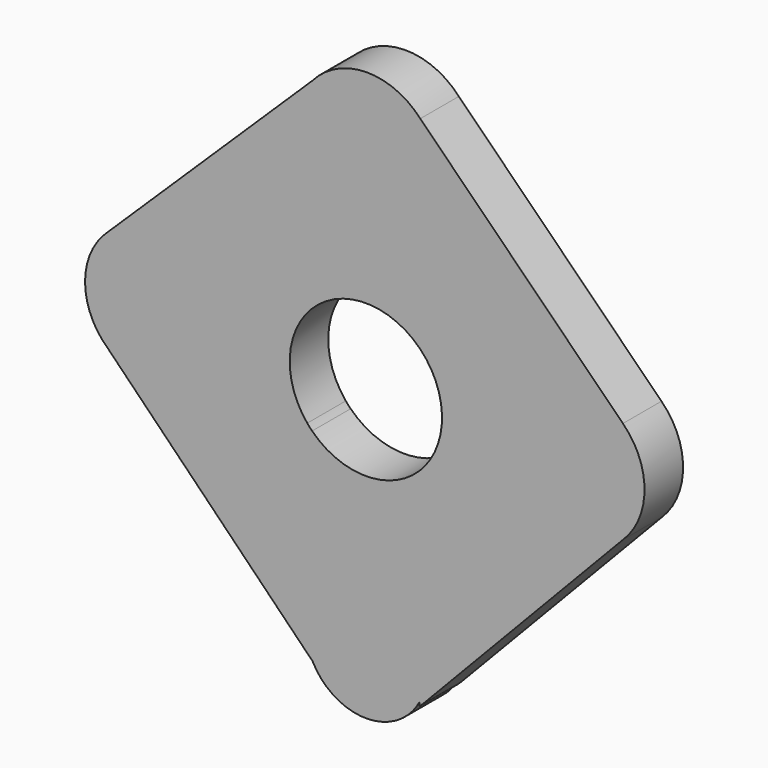
from build123d import *

# Parameters (mm, degrees)
F1_DEPTH = 6.96


with BuildPart() as f1:
    # F0 (on Front) → F1 (new body)
    with BuildSketch(Plane.XZ):
        with BuildLine():
            Line((7.764825, -37.187766), (7.764825, -37.751798))
            Line((7.764825, -37.751798), (8.341329, -37.187766))
            Line((8.341329, -37.187766), (37.133072, -7.022527))
            ThreePointArc((37.133072, -7.022527), (40.255881, 0.371149), (37.133072, 7.764825))
            Line((37.133072, 7.764825), (7.861621, 37.010901))
            ThreePointArc((7.861621, 37.010901), (0.040821, 40.394728), (-7.689789, 36.809638))
            Line((-7.689789, 36.809638), (-37.264177, 7.930262))
            ThreePointArc((-37.264177, 7.930262), (-40.565071, 0.5208), (-37.264177, -6.888662))
            Line((-37.264177, -6.888662), (-7.694786, -37.053901))
            ThreePointArc((-7.694786, -37.053901), (-1.330862, -41.685065), (6.172718, -39.309461))
            ThreePointArc((6.172718, -39.309461), (7.049861, -38.309462), (7.764825, -37.187766))
        make_face()
        with BuildLine():
            ThreePointArc((-7.764906, -7.79142), (-8.124877, -7.415279), (-8.466647, -7.022527))
            ThreePointArc((-8.466647, -7.022527), (0, 11), (8.466647, -7.022527))
            ThreePointArc((8.466647, -7.022527), (8.124839, -7.415322), (7.764825, -7.791501))
            ThreePointArc((7.764825, -7.791501), (-5.7e-05, -11), (-7.764906, -7.79142))
        make_face(mode=Mode.SUBTRACT)
    extrude(amount=F1_DEPTH)


solid = f1.part
